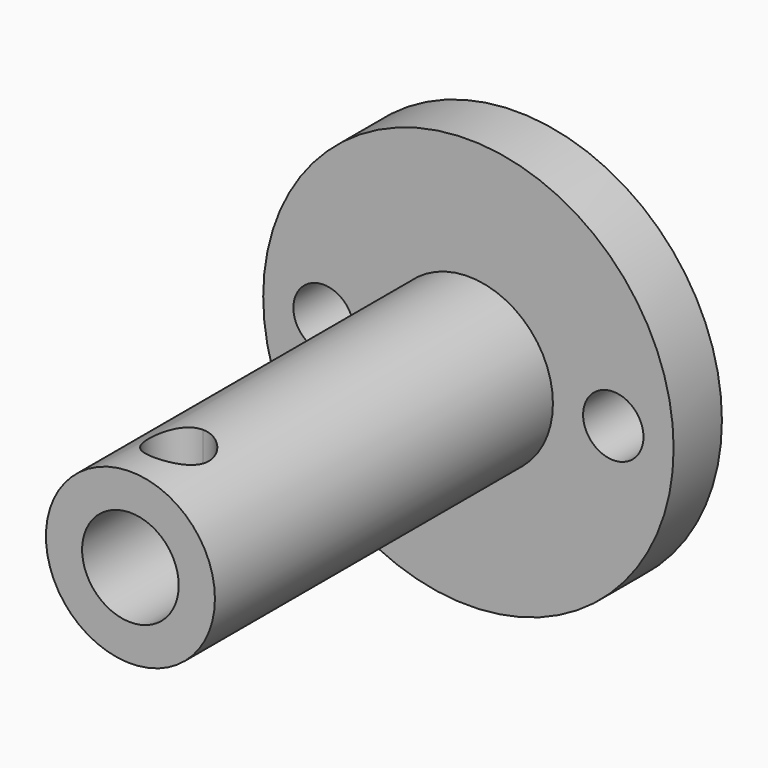
from build123d import *

# Parameters (mm, degrees)
F0_R     = 17
F0_R_2   = 2.5
F0_R_3   = 7
F1_DEPTH = 5
F0_R_4   = 4
F2_DEPTH = 40
F4_DEPTH = 10


with BuildPart() as f1:
    # F0 (on Front) → F1 (new body)
    with BuildSketch(Plane.XZ):
        Circle(F0_R)
        with Locations((-12, 0)):
            Circle(F0_R_2, mode=Mode.SUBTRACT)
        Circle(F0_R_3, mode=Mode.SUBTRACT)
        with Locations((12, 0)):
            Circle(F0_R_2, mode=Mode.SUBTRACT)
    extrude(amount=F1_DEPTH)

    # F0 (on Front) → F2 (join)
    with BuildSketch(Plane.XZ):
        Circle(F0_R_3)
        Circle(F0_R_4, mode=Mode.SUBTRACT)
    extrude(amount=F2_DEPTH)

    # F3 (on Top) → F4 (cut)
    with BuildSketch(Plane.XY):
        with BuildLine():
            ThreePointArc((0, -32.5), (-1.767767, -36.767767), (2.5, -35))
            ThreePointArc((2.5, -35), (1.767767, -33.232233), (0, -32.5))
        make_face()
    extrude(amount=F4_DEPTH, mode=Mode.SUBTRACT)


solid = f1.part
